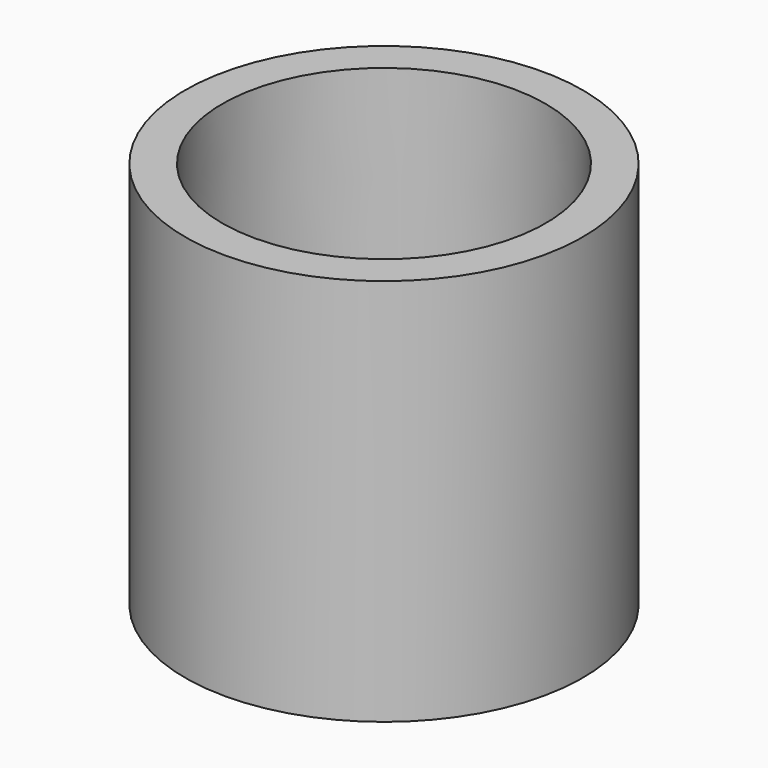
from build123d import *

# Parameters (mm, degrees)
F0_W   = 34
F0_H   = 10
F0_W_2 = 7


with BuildPart() as f1:
    # F0 (on Right) → F1 (revolve)
    with BuildSketch(Plane.YZ):
        with Locations((-17, 5)):
            Rectangle(F0_W, F0_H)
        with Locations((-37.5, 5)):
            Rectangle(F0_W_2, F0_H)
        Polygon((-41, 10), (-34, 10), (-33.339595, 80), (-41, 80), align=None)
    revolve(axis=Axis((0, 0, 5), (0, 0, -1)))


solid = f1.part
